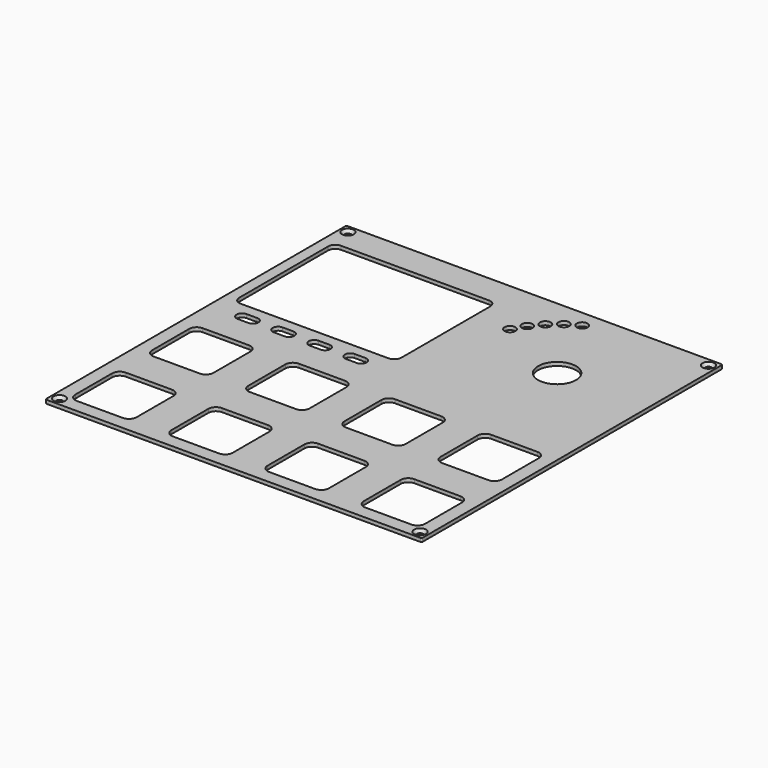
from build123d import *

# Parameters (mm, degrees)
PAD_DEPTH        = 1
POCKET_DEPTH     = 0.001
HOLE_D           = 1.75
HOLE_CSINK_D     = 3.3
HOLE_CSINK_ANGLE = 90
SKETCH025_R      = 5.25
SKETCH025_R_2    = 1.5
POCKET007_DEPTH  = 5
POCKET008_DEPTH  = 1.001
POCKET010_DEPTH  = 5
POCKET011_DEPTH  = 1.001


with BuildPart() as part:
    # Sketch → Pad (new body)
    with BuildSketch(Plane.XY):
        with BuildLine():
            Line((-51.8, 52.175), (51.8, 52.175))
            ThreePointArc((52.175, 51.8), (52.065165, 52.065165), (51.8, 52.175))
            Line((52.175, 51.8), (52.175, -51.8))
            ThreePointArc((51.8, -52.175), (52.065165, -52.065165), (52.175, -51.8))
            Line((51.8, -52.175), (-51.8, -52.175))
            ThreePointArc((-52.175, -51.8), (-52.065165, -52.065165), (-51.8, -52.175))
            Line((-52.175, -51.8), (-52.175, 51.8))
            ThreePointArc((-51.8, 52.175), (-52.065165, 52.065165), (-52.175, 51.8))
        make_face()
    extrude(amount=-PAD_DEPTH)

    # Sketch002 → Pocket (cut, through all)
    with BuildSketch(Plane.XY.offset(-4.8)):
        with BuildLine():
            Line((-45, 50.175), (45, 50.175))
            ThreePointArc((45, 50.175), (45.353553, 50.321447), (45.5, 50.675))
            ThreePointArc((45.5, 50.675), (45.353553, 51.028553), (45, 51.175))
            Line((-45, 51.175), (45, 51.175))
            ThreePointArc((-45, 51.175), (-45.353553, 51.028553), (-45.5, 50.675))
            ThreePointArc((-45.5, 50.675), (-45.353553, 50.321447), (-45, 50.175))
        make_face()
        with BuildLine():
            Line((-45, -51.175), (45, -51.175))
            ThreePointArc((45, -51.175), (45.353553, -51.028553), (45.5, -50.675))
            ThreePointArc((45.5, -50.675), (45.353553, -50.321447), (45, -50.175))
            Line((-45, -50.175), (45, -50.175))
            ThreePointArc((-45, -50.175), (-45.353553, -50.321447), (-45.5, -50.675))
            ThreePointArc((-45.5, -50.675), (-45.353553, -51.028553), (-45, -51.175))
        make_face()
        with BuildLine():
            Line((51.175, -45), (51.175, 45))
            ThreePointArc((51.175, 45), (51.028553, 45.353553), (50.675, 45.5))
            ThreePointArc((50.675, 45.5), (50.321447, 45.353553), (50.175, 45))
            Line((50.175, -45), (50.175, 45))
            ThreePointArc((50.175, -45), (50.321447, -45.353553), (50.675, -45.5))
            ThreePointArc((50.675, -45.5), (51.028553, -45.353553), (51.175, -45))
        make_face()
        with BuildLine():
            Line((-50.175, -45), (-50.175, 45))
            ThreePointArc((-50.175, 45), (-50.321447, 45.353553), (-50.675, 45.5))
            ThreePointArc((-50.675, 45.5), (-51.028553, 45.353553), (-51.175, 45))
            Line((-51.175, -45), (-51.175, 45))
            ThreePointArc((-51.175, -45), (-51.028553, -45.353553), (-50.675, -45.5))
            ThreePointArc((-50.675, -45.5), (-50.321447, -45.353553), (-50.175, -45))
        make_face()
    extrude(amount=-POCKET_DEPTH, mode=Mode.SUBTRACT)

    # Hole (through all)
    with Locations(Plane.XY):
        with Locations((-50, 50), (50, 50), (50, -50), (-50, -50)):
            CounterSinkHole(HOLE_D / 2, HOLE_CSINK_D / 2, counter_sink_angle=HOLE_CSINK_ANGLE)

    # Sketch025 → Pocket007 (cut)
    with BuildSketch(Plane.XY):
        with Locations((26.67, 26.67)):
            Circle(SKETCH025_R)
        with Locations((5.824921, 36.39022)):
            Circle(SKETCH025_R_2)
        with Locations((7.829503, 39.862258)):
            Circle(SKETCH025_R_2)
        with Locations((10.406544, 42.933456)):
            Circle(SKETCH025_R_2)
        with Locations((13.477742, 45.510497)):
            Circle(SKETCH025_R_2)
        with Locations((16.94978, 47.515079)):
            Circle(SKETCH025_R_2)
    extrude(amount=-POCKET007_DEPTH, mode=Mode.SUBTRACT)

    # Sketch027 → Pocket008 (cut, through all)
    with BuildSketch(Plane.XY):
        with BuildLine():
            Line((-49.17, 11.27), (-49.17, 42.07))
            ThreePointArc((-47.17, 44.07), (-48.584214, 43.484214), (-49.17, 42.07))
            Line((-47.17, 44.07), (-6.17, 44.07))
            ThreePointArc((-4.17, 42.07), (-4.755786, 43.484214), (-6.17, 44.07))
            Line((-4.17, 42.07), (-4.17, 11.27))
            ThreePointArc((-6.17, 9.27), (-4.755786, 9.855786), (-4.17, 11.27))
            Line((-6.17, 9.27), (-47.17, 9.27))
            ThreePointArc((-49.17, 11.27), (-48.584214, 9.855786), (-47.17, 9.27))
        make_face()
    extrude(amount=-POCKET008_DEPTH, mode=Mode.SUBTRACT)

    # Sketch029 → Pocket010 (cut)
    with BuildSketch(Plane.XY):
        with BuildLine():
            ThreePointArc((-33.17, 6.27), (-34.67, 4.77), (-33.17, 3.27))
            Line((-33.17, 3.27), (-30.17, 3.27))
            ThreePointArc((-30.17, 3.27), (-28.67, 4.77), (-30.17, 6.27))
            Line((-30.17, 6.27), (-33.17, 6.27))
        make_face()
        with BuildLine():
            ThreePointArc((-23.17, 6.27), (-24.67, 4.77), (-23.17, 3.27))
            Line((-23.17, 3.27), (-20.17, 3.27))
            ThreePointArc((-20.17, 3.27), (-18.67, 4.77), (-20.17, 6.27))
            Line((-20.17, 6.27), (-23.17, 6.27))
        make_face()
        with BuildLine():
            ThreePointArc((-13.17, 6.27), (-14.67, 4.77), (-13.17, 3.27))
            Line((-13.17, 3.27), (-10.17, 3.27))
            ThreePointArc((-10.17, 3.27), (-8.67, 4.77), (-10.17, 6.27))
            Line((-10.17, 6.27), (-13.17, 6.27))
        make_face()
        with BuildLine():
            ThreePointArc((-43.17, 6.27), (-44.67, 4.77), (-43.17, 3.27))
            Line((-43.17, 3.27), (-40.17, 3.27))
            ThreePointArc((-40.17, 3.27), (-38.67, 4.77), (-40.17, 6.27))
            Line((-40.17, 6.27), (-43.17, 6.27))
        make_face()
    extrude(amount=-POCKET010_DEPTH, mode=Mode.SUBTRACT)

    # Sketch030 → Pocket011 (cut, through all)
    with BuildSketch(Plane.XY):
        with BuildLine():
            Line((-48.505, -19.735), (-48.505, -6.935))
            ThreePointArc((-46.405, -4.835), (-47.889924, -5.450076), (-48.505, -6.935))
            Line((-46.405, -4.835), (-33.605, -4.835))
            ThreePointArc((-31.505, -6.935), (-32.120076, -5.450076), (-33.605, -4.835))
            Line((-31.505, -6.935), (-31.505, -19.735))
            ThreePointArc((-33.605, -21.835), (-32.120076, -21.219924), (-31.505, -19.735))
            Line((-33.605, -21.835), (-46.405, -21.835))
            ThreePointArc((-48.505, -19.735), (-47.889924, -21.219924), (-46.405, -21.835))
        make_face()
        with BuildLine():
            Line((-21.835, -19.735), (-21.835, -6.935))
            ThreePointArc((-19.735, -4.835), (-21.219924, -5.450076), (-21.835, -6.935))
            Line((-19.735, -4.835), (-6.935, -4.835))
            ThreePointArc((-4.835, -6.935), (-5.450076, -5.450076), (-6.935, -4.835))
            Line((-4.835, -6.935), (-4.835, -19.735))
            ThreePointArc((-6.935, -21.835), (-5.450076, -21.219924), (-4.835, -19.735))
            Line((-6.935, -21.835), (-19.735, -21.835))
            ThreePointArc((-21.835, -19.735), (-21.219924, -21.219924), (-19.735, -21.835))
        make_face()
        with BuildLine():
            Line((4.835, -19.735), (4.835, -6.935))
            ThreePointArc((6.935, -4.835), (5.450076, -5.450076), (4.835, -6.935))
            Line((6.935, -4.835), (19.735, -4.835))
            ThreePointArc((21.835, -6.935), (21.219924, -5.450076), (19.735, -4.835))
            Line((21.835, -6.935), (21.835, -19.735))
            ThreePointArc((19.735, -21.835), (21.219924, -21.219924), (21.835, -19.735))
            Line((19.735, -21.835), (6.935, -21.835))
            ThreePointArc((4.835, -19.735), (5.450076, -21.219924), (6.935, -21.835))
        make_face()
        with BuildLine():
            Line((31.505, -19.735), (31.505, -6.935))
            ThreePointArc((33.605, -4.835), (32.120076, -5.450076), (31.505, -6.935))
            Line((33.605, -4.835), (46.405, -4.835))
            ThreePointArc((48.505, -6.935), (47.889924, -5.450076), (46.405, -4.835))
            Line((48.505, -6.935), (48.505, -19.735))
            ThreePointArc((46.405, -21.835), (47.889924, -21.219924), (48.505, -19.735))
            Line((46.405, -21.835), (33.605, -21.835))
            ThreePointArc((31.505, -19.735), (32.120076, -21.219924), (33.605, -21.835))
        make_face()
        with BuildLine():
            Line((31.505, -46.405), (31.505, -33.605))
            ThreePointArc((33.605, -31.505), (32.120076, -32.120076), (31.505, -33.605))
            Line((33.605, -31.505), (46.405, -31.505))
            ThreePointArc((48.505, -33.605), (47.889924, -32.120076), (46.405, -31.505))
            Line((48.505, -33.605), (48.505, -46.405))
            ThreePointArc((46.405, -48.505), (47.889924, -47.889924), (48.505, -46.405))
            Line((46.405, -48.505), (33.605, -48.505))
            ThreePointArc((31.505, -46.405), (32.120076, -47.889924), (33.605, -48.505))
        make_face()
        with BuildLine():
            Line((4.835, -46.405), (4.835, -33.605))
            ThreePointArc((6.935, -31.505), (5.450076, -32.120076), (4.835, -33.605))
            Line((6.935, -31.505), (19.735, -31.505))
            ThreePointArc((21.835, -33.605), (21.219924, -32.120076), (19.735, -31.505))
            Line((21.835, -33.605), (21.835, -46.405))
            ThreePointArc((19.735, -48.505), (21.219924, -47.889924), (21.835, -46.405))
            Line((19.735, -48.505), (6.935, -48.505))
            ThreePointArc((4.835, -46.405), (5.450076, -47.889924), (6.935, -48.505))
        make_face()
        with BuildLine():
            Line((-21.835, -46.405), (-21.835, -33.605))
            ThreePointArc((-19.735, -31.505), (-21.219924, -32.120076), (-21.835, -33.605))
            Line((-19.735, -31.505), (-6.935, -31.505))
            ThreePointArc((-4.835, -33.605), (-5.450076, -32.120076), (-6.935, -31.505))
            Line((-4.835, -33.605), (-4.835, -46.405))
            ThreePointArc((-6.935, -48.505), (-5.450076, -47.889924), (-4.835, -46.405))
            Line((-6.935, -48.505), (-19.735, -48.505))
            ThreePointArc((-21.835, -46.405), (-21.219924, -47.889924), (-19.735, -48.505))
        make_face()
        with BuildLine():
            Line((-48.505, -46.405), (-48.505, -33.605))
            ThreePointArc((-46.405, -31.505), (-47.889924, -32.120076), (-48.505, -33.605))
            Line((-46.405, -31.505), (-33.605, -31.505))
            ThreePointArc((-31.505, -33.605), (-32.120076, -32.120076), (-33.605, -31.505))
            Line((-31.505, -33.605), (-31.505, -46.405))
            ThreePointArc((-33.605, -48.505), (-32.120076, -47.889924), (-31.505, -46.405))
            Line((-33.605, -48.505), (-46.405, -48.505))
            ThreePointArc((-48.505, -46.405), (-47.889924, -47.889924), (-46.405, -48.505))
        make_face()
    extrude(amount=-POCKET011_DEPTH, mode=Mode.SUBTRACT)


solid = part.part
